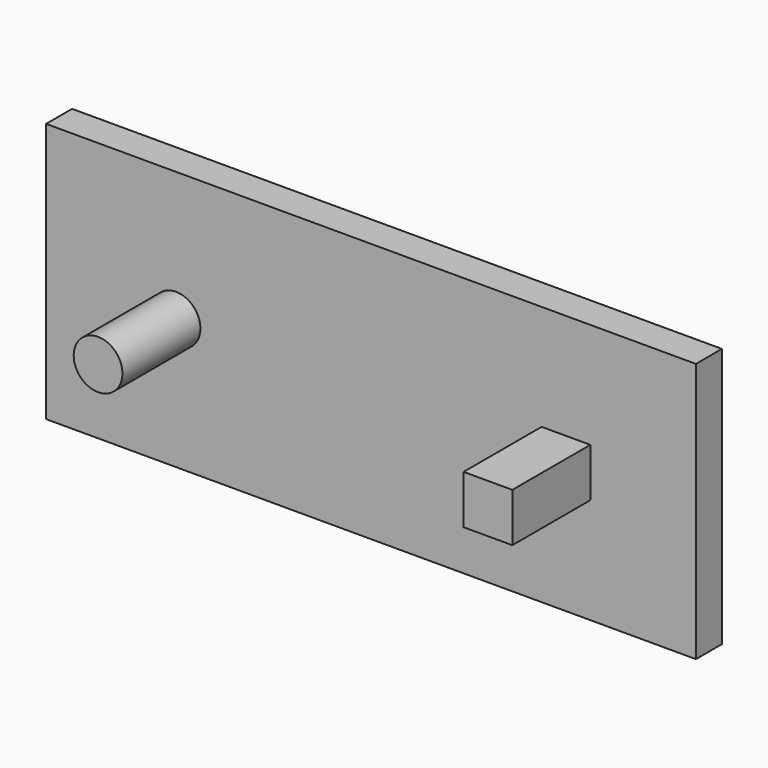
from build123d import *

# Parameters (mm, degrees)
F1_DEPTH      = 19.05
F1_DEPTH_BACK = 6.35
F2_DEPTH      = 6.35


with BuildPart() as f1:
    # F0 (on Front) → F1 (new body, two sides)
    with BuildSketch(Plane.XZ) as f1_sk:
        Polygon((42.8625, -4.7625), (42.8625, 0), (42.8625, 4.7625), (33.3375, 4.7625), (33.3375, -4.7625), align=None)
    extrude(amount=F1_DEPTH)
    extrude(f1_sk.sketch, amount=-F1_DEPTH_BACK)



with BuildPart() as f1b:
    # F0 (on Front) → F1, piece 2 (new body, two sides)
    with BuildSketch(Plane.XZ) as f1_2_sk:
        with BuildLine():
            ThreePointArc((-33.3375, 0), (-38.1, 4.7625), (-42.8625, 0))
            ThreePointArc((-42.8625, 0), (-38.1, -4.7625), (-33.3375, 0))
        make_face()
    extrude(amount=F1_DEPTH)
    extrude(f1_2_sk.sketch, amount=-F1_DEPTH_BACK)


with BuildPart() as f1_1:
    add(f1.part)

    add(f1b.part)  # F2 merges F1b
    # F0 (on Front) → F2 (join)
    with BuildSketch(Plane.XZ):
        Polygon((63.5, 25.4), (-63.5, 25.4), (-63.5, 0), (-63.5, -25.4), (63.5, -25.4), (63.5, 0), align=None)
        with BuildLine():
            ThreePointArc((-33.3375, 0), (-38.1, -4.7625), (-42.8625, 0))
            ThreePointArc((-42.8625, 0), (-38.1, 4.7625), (-33.3375, 0))
        make_face(mode=Mode.SUBTRACT)
        Polygon((42.8625, 4.7625), (42.8625, 0), (42.8625, -4.7625), (33.3375, -4.7625), (33.3375, 4.7625), align=None, mode=Mode.SUBTRACT)
    extrude(amount=-F2_DEPTH)


solid = f1_1.part
